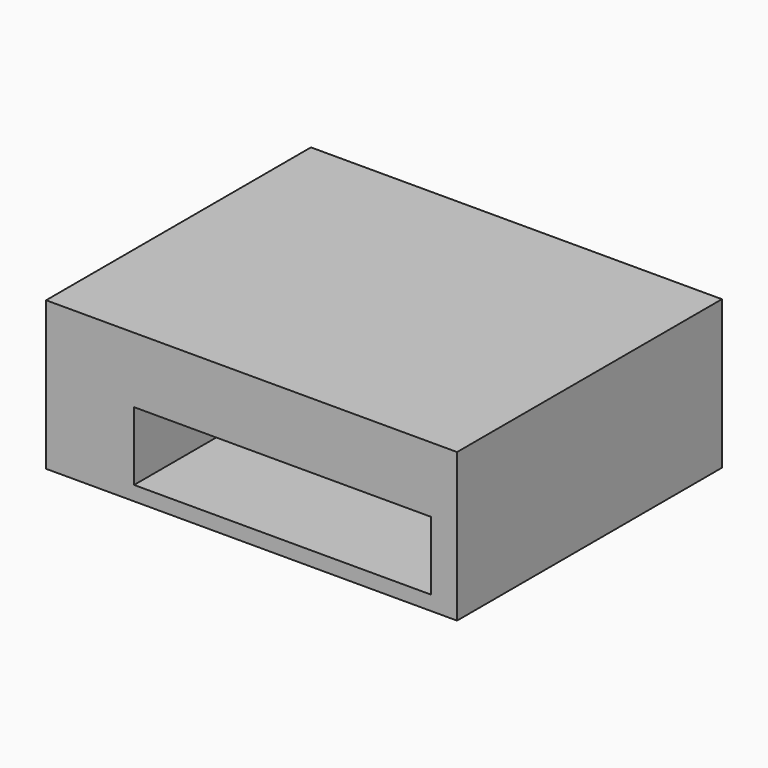
from build123d import *

# Parameters (mm, degrees)
SKETCH003_W  = 130
SKETCH003_H  = 30
PAD003_DEPTH = 150
SKETCH002_W  = 180
SKETCH002_H  = 65
PAD002_DEPTH = 145


with BuildPart() as body002:
    # Sketch003 → Pad003 (new body)
    with BuildSketch(Plane.XZ):
        with Locations((13.539826, -11.184382)):
            Rectangle(SKETCH003_W, SKETCH003_H)
    extrude(amount=PAD003_DEPTH)


with BuildPart() as body002_1:
    # Body002 placement: moved
    add(body002.part.moved(Location((0, 2, 0))))


with BuildPart() as cut:
    # Sketch002 → Pad002 (new body)
    with BuildSketch(Plane.XZ):
        Rectangle(SKETCH002_W, SKETCH002_H)
    extrude(amount=PAD002_DEPTH)

    # Cut: cut Body002
    add(body002_1.part, mode=Mode.SUBTRACT)


with BuildPart() as cut_1:
    # Cut placement: moved
    add(cut.part.moved(Location((0, 1, 0))))


solid = cut_1.part
